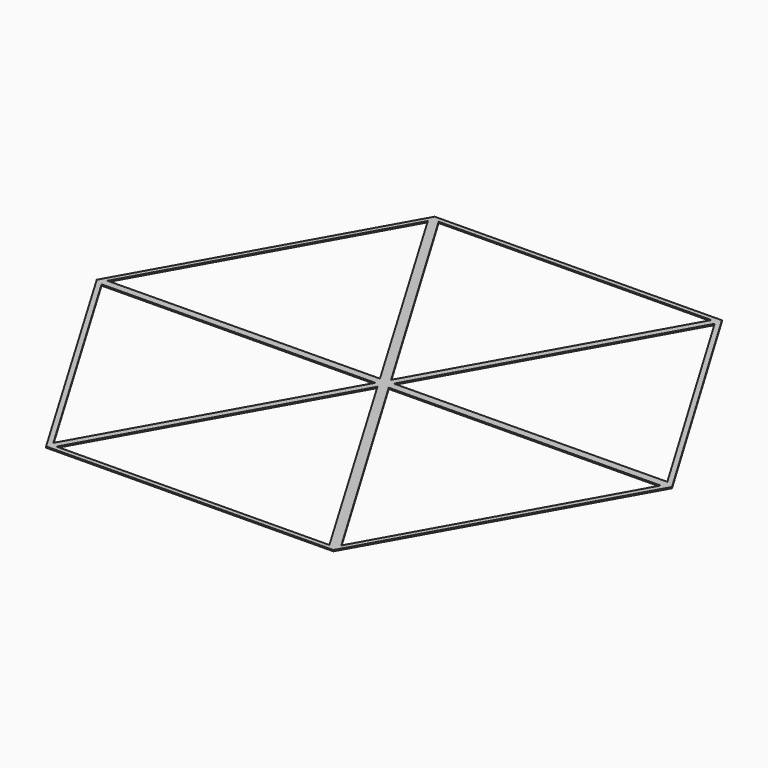
from build123d import *

# Parameters (mm, degrees)
F1_DEPTH = 0.762


with BuildPart() as f1:
    # F0 (on Top) → F1 (new body)
    with BuildSketch(Plane.XY):
        Polygon((181.6349840739, 2.3127086959), (88.8193655746, 158.0847512576), (-92.4957277527, 155.9622025644), (-181.3150933273, -2.1225486931), (-88.8193655747, -158.0847512576), (92.4957277527, -155.9622025644), align=None)
        Polygon((-176.3533864908, -4.4843056907), (-177.7786145431, -2.081149225), (-176.4100340207, 0.3547127074), (-92.2250292754, 150.1910175344), (-90.6916353695, 152.9202218314), (-87.5611636853, 152.9568684142), (84.5926755519, 154.9721717174), (87.0869791736, 155.0013710565), (88.3657397647, 152.8552328047), (176.3484574277, 5.1942263696), (177.7786145431, 2.794), (176.2160018481, 0), (92.5232077304, -149.6453136004), (90.6916353695, -152.9202218314), (87.5613781631, -152.9568659035), (-84.5859686391, -154.9720932035), (-87.0869791736, -155.0013710565), (-88.3594183539, -152.8558404248), align=None, mode=Mode.SUBTRACT)
        Polygon((2.961365666, 0.8486388782), (1.234125174, -2.2255823997), (4.7641738758, -2.1806839541), align=None)
        Polygon((-2.8058330862, -0.5836736654), (-3.7640511788, -2.2891538594), (-1.8091187846, -2.2642892093), align=None)
        Polygon((-0.9259721319, 2.7621884609), (-4.7589605804, 2.709603476), (-2.8058330862, -0.5836736654), align=None)
        Polygon((-0.9259721319, 2.7621884609), (-2.8058330862, -0.5836736654), (-1.8091187846, -2.2642892093), (1.234125174, -2.2255823997), (2.961365666, 0.8486388782), (1.800316835, 2.7995905732), align=None)
        Polygon((0.4087795335, 5.137840253), (-0.9259721319, 2.7621884609), (1.800316835, 2.7995905732), align=None)
        Polygon((4.075034598, 2.8307975546), (1.800316835, 2.7995905732), (2.961365666, 0.8486388782), align=None)
        Polygon((1.234125174, -2.2255823997), (-1.8091187846, -2.2642892093), (-0.2575332742, -4.8805040287), align=None)
        Polygon((1.234125174, -2.2255823997), (-0.2575332742, -4.8805040287), (87.5613781631, -152.9568659035), (90.6916353695, -152.9202218314), (92.5232077304, -149.6453136004), (4.7641738758, -2.1806839541), align=None)
        Polygon((-3.7640511788, -2.2891538594), (-88.3594183539, -152.8558404248), (-87.0869791736, -155.0013710565), (-84.5859686391, -154.9720932035), (-0.2575332742, -4.8805040287), (-1.8091187846, -2.2642892093), align=None)
        Polygon((-176.4100340207, 0.3547127074), (-177.7786145431, -2.081149225), (-176.3533864908, -4.4843056907), (-3.7640511788, -2.2891538594), (-2.8058330862, -0.5836736654), (-4.7589605804, 2.709603476), align=None)
        Polygon((-90.6916353695, 152.9202218314), (-92.2250292754, 150.1910175344), (-4.7589605804, 2.709603476), (-0.9259721319, 2.7621884609), (0.4087795335, 5.137840253), (-87.5611636853, 152.9568684142), align=None)
        Polygon((84.5926755519, 154.9721717174), (0.4087795335, 5.137840253), (1.800316835, 2.7995905732), (4.075034598, 2.8307975546), (88.3657397647, 152.8552328047), (87.0869791736, 155.0013710565), align=None)
        Polygon((4.075034598, 2.8307975546), (2.961365666, 0.8486388782), (4.7641738758, -2.1806839541), (176.2160018481, 0), (177.7786145431, 2.794), (176.3484574277, 5.1942263696), align=None)
    extrude(amount=F1_DEPTH)


solid = f1.part
